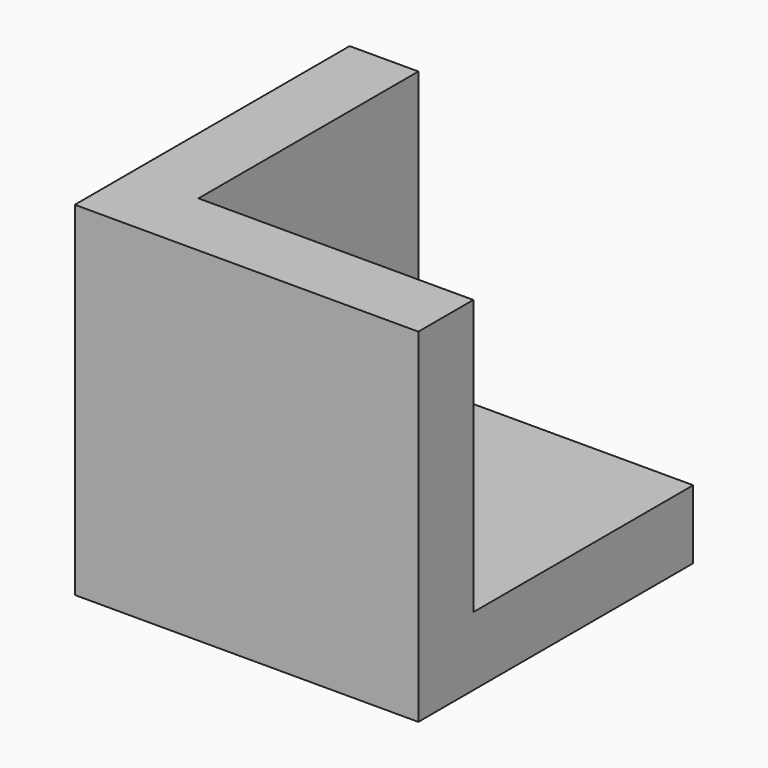
from build123d import *

# Parameters (mm, degrees)
BOX001_W     = 10
BOX001_H     = 10
BOX001_DEPTH = 10
BOX_W        = 10
BOX_H        = 10
BOX_DEPTH    = 10


with BuildPart() as cube001:
    # Box001 → Box001 (new body)
    with BuildSketch(Plane(origin=(2, 2, 2), x_dir=(1, 0, 0), z_dir=(0, 0, 1))):
        with Locations((5, 5)):
            Rectangle(BOX001_W, BOX001_H)
    extrude(amount=BOX001_DEPTH)


with BuildPart() as obj1:
    # Box → Box (new body)
    with BuildSketch(Plane.XY):
        with Locations((5, 5)):
            Rectangle(BOX_W, BOX_H)
    extrude(amount=BOX_DEPTH)

    # Cut: cut Cube001
    add(cube001.part, mode=Mode.SUBTRACT)


solid = obj1.part
